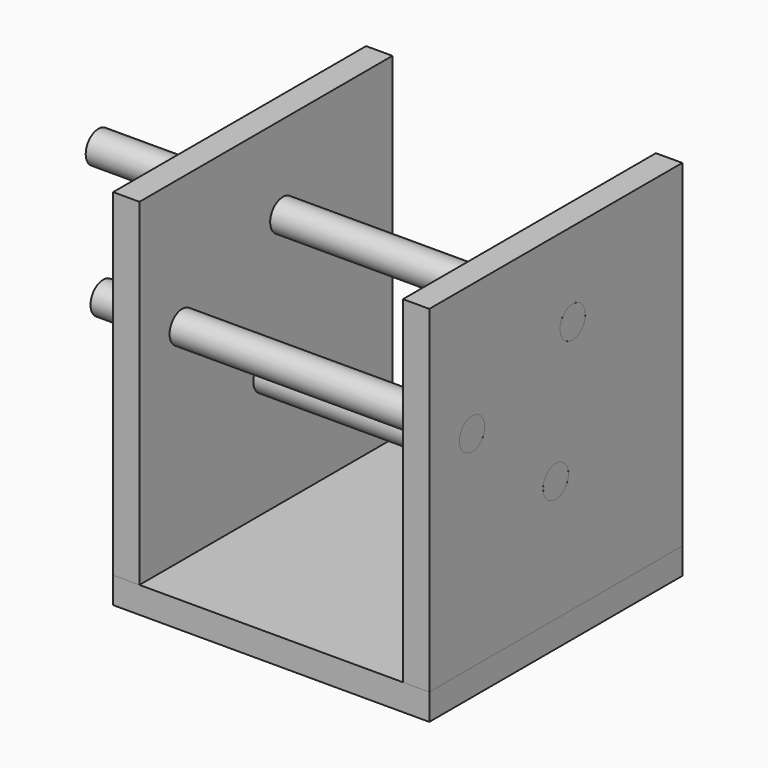
from build123d import *

# Parameters (mm, degrees)
F0_W      = 60
F0_H      = 60
F1_DEPTH  = 5
F2_W      = 5
F2_H      = 60
F3_DEPTH  = 64
F7_R      = 3
F8_DEPTH  = 60
F9_R      = 3
F10_DEPTH = 70
F11_R     = 3
F12_DEPTH = 90
F13_R     = 3
F14_DEPTH = 75


with BuildPart() as f1:
    # F0 (on Top) → F1 (new body)
    with BuildSketch(Plane.XY):
        with Locations((30, -30)):
            Rectangle(F0_W, F0_H)
    extrude(amount=F1_DEPTH)


with BuildPart() as f3:
    # F2 (on face) → F3 (new body)
    with BuildSketch(Plane.XY.offset(5)):
        with Locations((57.5, -30)):
            Rectangle(F2_W, F2_H)
    extrude(amount=F3_DEPTH)


with BuildPart() as f4_1:
    # F4: copy of F3
    add(f3.part.moved(Location((-40000, 0, 0))))


with BuildPart() as f6_1:
    # F6: copy of F3
    add(f3.part.moved(Location((-55, 0, 0))))


with BuildPart() as f8_tool:
    # F7 (on face) → F8 (new body, through all)
    with BuildSketch(Plane(origin=(0, 0, 0), x_dir=(0, -1, 0), z_dir=(-1, 0, 0))):
        with Locations((30, 28)):
            Circle(F7_R)
        with Locations((49.85793, 43.997269)):
            Circle(F7_R)
        with Locations((26, 53)):
            Circle(F7_R)
    extrude(amount=-F8_DEPTH)


with BuildPart() as f3_1:
    add(f3.part)

    # F8: cut by f8_tool
    add(f8_tool.part, mode=Mode.SUBTRACT)


with BuildPart() as f6_1_1:
    add(f6_1.part)

    # F8: cut by f8_tool
    add(f8_tool.part, mode=Mode.SUBTRACT)


with BuildPart() as f10:
    # F9 (on face) → F10 (new body)
    with BuildSketch(Plane.YZ.offset(60)):
        with Locations((-49.85793, 43.997269)):
            Circle(F9_R)
    extrude(amount=-F10_DEPTH)


with BuildPart() as f12:
    # F11 (on face) → F12 (new body)
    with BuildSketch(Plane.YZ.offset(60)):
        with Locations((-26, 53)):
            Circle(F11_R)
    extrude(amount=-F12_DEPTH)


with BuildPart() as f14:
    # F13 (on face) → F14 (new body)
    with BuildSketch(Plane.YZ.offset(60)):
        with Locations((-30, 28)):
            Circle(F13_R)
    extrude(amount=-F14_DEPTH)


solid = Compound([f1.part, f3_1.part, f6_1_1.part, f10.part, f12.part, f14.part])
